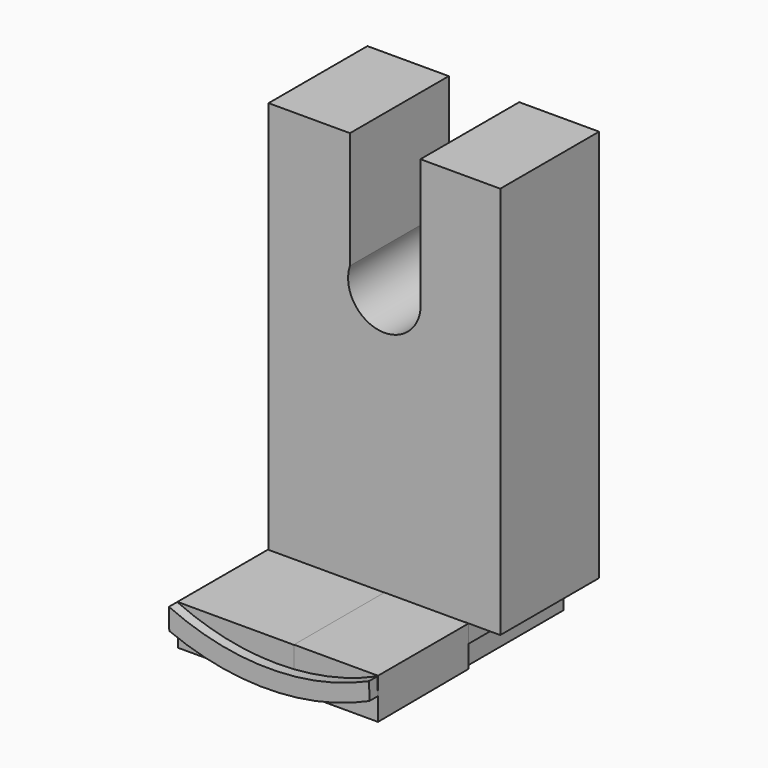
from build123d import *

# Parameters (mm, degrees)
F1_DEPTH = 25.4
F3_DEPTH = 17.272
F4_W     = 23.310908
F4_H     = 8.280322
F5_DEPTH = 23.876
F7_DEPTH = 50.8


with BuildPart() as f1:
    # F0 (on Front) → F1 (new body)
    with BuildSketch(Plane.XZ):
        with BuildLine():
            Line((23.818642, -36.310196), (23.818642, 44.50167))
            Line((23.818642, 44.50167), (7.39786, 44.50167))
            Line((7.39786, 44.50167), (7.39786, 19.167547))
            ThreePointArc((7.39786, 19.167547), (-0.678108, 10.708378), (-7.09106, 20.488605))
            Line((-7.09106, 20.488605), (-7.09106, 44.50167))
            Line((-7.09106, 44.50167), (-23.818642, 44.50167))
            Line((-23.818642, 44.50167), (-23.818642, -44.50167))
            Line((-23.818642, -44.50167), (16.52839, -44.50167))
            Line((16.52839, -44.50167), (16.52839, -36.310196))
            Line((16.52839, -36.310196), (23.818642, -36.310196))
        make_face()
    extrude(amount=F1_DEPTH)

    # F2 (on Right) → F3 (join)
    with BuildSketch(Plane.YZ):
        Polygon((-25.332414, -44.583075), (-25.396273, -36.345303), (-48.64084, -36.345303), (-48.64084, -44.710793), align=None)
    extrude(amount=F3_DEPTH)

    # F4 (on Right) → F5 (join)
    with BuildSketch(Plane.YZ):
        with Locations((-37.007682, -40.510669)):
            Rectangle(F4_W, F4_H)
    extrude(amount=-F5_DEPTH)

    # F6 (on Front) → F7 (join)
    with BuildSketch(Plane.XZ):
        with BuildLine():
            ThreePointArc((16.882643, -36.605049), (-3.576906, -40.894858), (-23.993824, -36.406536))
            Line((-23.993824, -36.406536), (-23.923699, -40.75424))
            ThreePointArc((-23.923699, -40.75424), (-3.327998, -44.695684), (17.132053, -40.101755))
            Line((17.132053, -40.101755), (17.169088, -36.476661))
            ThreePointArc((17.169088, -36.476661), (17.025967, -36.54108), (16.882643, -36.605049))
        make_face()
        with BuildLine():
            Line((17.239213, -40.052999), (17.169088, -36.476661))
            Line((17.169088, -36.476661), (17.132053, -40.101755))
            ThreePointArc((17.132053, -40.101755), (17.185647, -40.077407), (17.239213, -40.052999))
        make_face()
    extrude(amount=F7_DEPTH)


solid = f1.part
